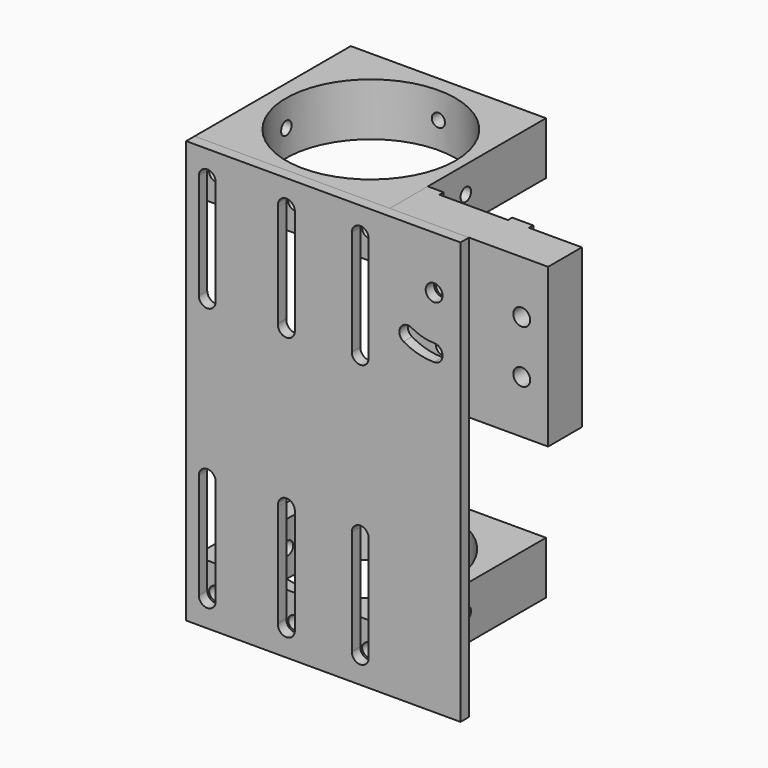
from build123d import *

# Parameters (mm, degrees)
F1_DEPTH   = 30
F2_R       = 1.6
F3_DEPTH   = 25
F4_D       = 2.5
F5_W       = 37
F5_H       = 37
F5_R       = 16.05
F6_DEPTH   = 10
F9_D       = 2.5
F9_ON_F7_D = 2.5
F11_D      = 2.5
F11_DEPTH  = 6
F11_TIP    = 0.7510757738
F13_R      = 1.6
F14_DEPTH  = 2
F16_W      = 37
F16_H      = 37
F16_R      = 15.75
F17_DEPTH  = 10
F19_D      = 2.5
F19_DEPTH  = 6
F19_TIP    = 0.7510757738
F20_D      = 2.5
F22_D      = 2.5


with BuildPart() as f1:
    # F0 (on Top) → F1 (new body)
    with BuildSketch(Plane.XY):
        Polygon((34, -10), (21, -10), (21, -9), (18, -9), (18, -10), (18, -18), (48, -18), (48, -10), (38, -10), (38, -9), (34, -9), align=None)
    extrude(amount=-F1_DEPTH)

    # F2 (on face) → F3 (cut)
    with BuildSketch(Plane.XZ.offset(18)):
        with Locations((43, -10)):
            Circle(F2_R)
        with Locations((43, -20)):
            Circle(F2_R)
    extrude(amount=-F3_DEPTH, mode=Mode.SUBTRACT)

    # F4 (through all)
    with Locations(Plane.XZ.offset(18)):
        with Locations((28, -10), (28, -20)):
            Hole(F4_D / 2)


with BuildPart() as f6:
    # F5 (on Top) → F6 (new body)
    with BuildSketch(Plane.XY):
        with Locations((-0.5, 0.5)):
            Rectangle(F5_W, F5_H)
        Circle(F5_R, mode=Mode.SUBTRACT)
    extrude(amount=-F6_DEPTH)

    # F9 (through all)
    with Locations(Plane(origin=(0, 19, 0), x_dir=(-1, 0, 0), z_dir=(0, 1, 0))):
        with Locations((0, -5)):
            Hole(F9_D / 2)

    # F9 on F7 (through all)
    with Locations(Plane(origin=(-19, 0, 0), x_dir=(0, -1, 0), z_dir=(-1, 0, 0))):
        with Locations((0, -5)):
            Hole(F9_ON_F7_D / 2)

    # F11
    with Locations(Plane.XZ.offset(18)):
        with Locations((-15, -5), (14, -5)):
            Hole(F11_D / 2, depth=F11_DEPTH)
            with Locations((0, 0, -(F11_DEPTH + F11_TIP / 2))):  # 118° drill point
                Cone(0, F11_D / 2, F11_TIP, mode=Mode.SUBTRACT)


with BuildPart() as f14:
    # F13 (on offset) → F14 (new body)
    with BuildSketch(Plane.XZ.offset(18)):
        Polygon((33, 0), (-19, 0), (-19, -80), (33, -80), (33, -30), align=None)
        with BuildLine():
            ThreePointArc((-13.4008254517, -74.948611634), (-14.9743025024, -76.5997936238), (-16.6, -75))
            Line((-16.6, -75), (-16.6, -55))
            ThreePointArc((-16.6, -55), (-14.9999668968, -53.4000000003), (-13.4000000014, -55.0000662064))
            Line((-13.4000000014, -55.0000662064), (-13.4008254517, -74.948611634))
        make_face(mode=Mode.SUBTRACT)
        with BuildLine():
            Line((1.6, -55.0000101306), (1.5998734951, -74.979880366))
            ThreePointArc((1.5998734951, -74.979880366), (-0.1221809073, -76.5953281248), (-1.5781509312, -74.7364859809))
            Line((-1.5781509312, -74.7364859809), (-1.5781509312, -55.2635140191))
            ThreePointArc((-1.5781509312, -55.2635140191), (-0.1322040856, -53.4054712045), (1.6, -55.0000101306))
        make_face(mode=Mode.SUBTRACT)
        with BuildLine():
            ThreePointArc((15.5883583555, -75.1926596338), (13.9166405534, -76.5978270253), (12.4002167051, -75.0263326662))
            ThreePointArc((12.4002167051, -75.0263326662), (12.4, -75), (12.4002167051, -74.9736673338))
            Line((12.4002167051, -74.9736673338), (12.4002167051, -55.0263326662))
            ThreePointArc((12.4002167051, -55.0263326662), (13.9872944393, -53.4000504481), (15.5999997341, -55.0009224666))
            Line((15.5999997341, -55.0009224666), (15.5885794521, -74.8091720034))
            ThreePointArc((15.5885794521, -74.8091720034), (15.5999997341, -75.0009224666), (15.5883583555, -75.1926596338))
        make_face(mode=Mode.SUBTRACT)
        with BuildLine():
            ThreePointArc((-16.6, -5), (-14.9743025024, -3.4002063762), (-13.4008254517, -5.051388366))
            Line((-13.4008254517, -5.051388366), (-13.4000000014, -24.9999337936))
            ThreePointArc((-13.4000000014, -24.9999337936), (-14.9999668968, -26.5999999997), (-16.6, -25))
            Line((-16.6, -25), (-16.6, -5))
        make_face(mode=Mode.SUBTRACT)
        with BuildLine():
            ThreePointArc((-1.5781509312, -5.2635140191), (-0.1221809073, -3.4046718752), (1.5998734951, -5.020119634))
            Line((1.5998734951, -5.020119634), (1.6, -24.9999898694))
            ThreePointArc((1.6, -24.9999898694), (-0.1322040856, -26.5945287955), (-1.5781509312, -24.7364859809))
            Line((-1.5781509312, -24.7364859809), (-1.5781509312, -5.2635140191))
        make_face(mode=Mode.SUBTRACT)
        with BuildLine():
            ThreePointArc((15.5883583555, -4.8073403662), (15.5999997341, -4.9990775334), (15.5885794521, -5.1908279966))
            Line((15.5885794521, -5.1908279966), (15.5999997341, -24.9990775334))
            ThreePointArc((15.5999997341, -24.9990775334), (13.9872944393, -26.5999495519), (12.4002167051, -24.9736673338))
            Line((12.4002167051, -24.9736673338), (12.4002167051, -5.0263326662))
            ThreePointArc((12.4002167051, -5.0263326662), (12.4, -5), (12.4002167051, -4.9736673338))
            ThreePointArc((12.4002167051, -4.9736673338), (13.9166405534, -3.4021729747), (15.5883583555, -4.8073403662))
        make_face(mode=Mode.SUBTRACT)
        with BuildLine():
            ThreePointArc((28, -18.4), (29.6, -20), (28, -21.6))
            ThreePointArc((28, -21.6), (24.9976990768, -21.204739585), (22.2, -20.0458946839))
            ThreePointArc((22.2, -20.0458946839), (21.6143593539, -17.8602540378), (23.8, -17.2746133918))
            ThreePointArc((23.8, -17.2746133918), (25.8259200211, -18.1137769408), (28, -18.4))
        make_face(mode=Mode.SUBTRACT)
        with Locations((28, -10)):
            Circle(F13_R, mode=Mode.SUBTRACT)
    extrude(amount=F14_DEPTH)


with BuildPart() as f17:
    # F16 (on offset) → F17 (new body)
    with BuildSketch(Plane(origin=(0, 0, -80), x_dir=(1, 0, 0), z_dir=(0, 0, -1))):
        with Locations((-0.5, -0.5)):
            Rectangle(F16_W, F16_H)
        Circle(F16_R, mode=Mode.SUBTRACT)
    extrude(amount=-F17_DEPTH)

    # F19
    with Locations(Plane.XZ.offset(18)):
        with Locations((-15, -75), (14, -75)):
            Hole(F19_D / 2, depth=F19_DEPTH)
            with Locations((0, 0, -(F19_DEPTH + F19_TIP / 2))):  # 118° drill point
                Cone(0, F19_D / 2, F19_TIP, mode=Mode.SUBTRACT)

    # F20 (through all)
    with Locations(Plane.XZ.offset(18)):
        with Locations((0, -75)):
            Hole(F20_D / 2)

    # F22 (through all)
    with Locations(Plane(origin=(-19, 0, 0), x_dir=(0, -1, 0), z_dir=(-1, 0, 0))):
        with Locations((0, -75)):
            Hole(F22_D / 2)


solid = Compound([f1.part, f6.part, f14.part, f17.part])
